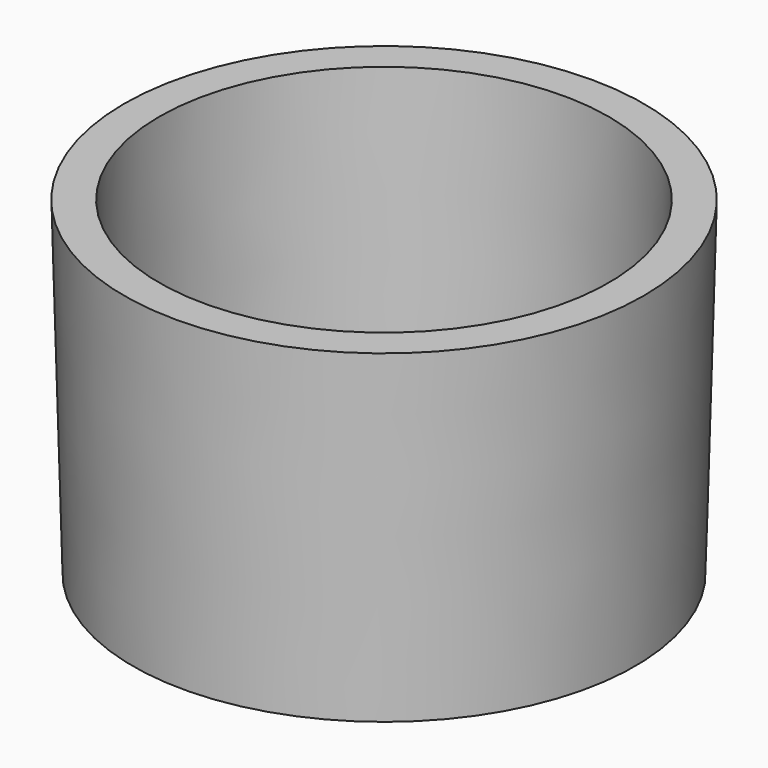
from build123d import *


with BuildPart() as part:
    # Sketch → Revolution (revolve)
    with BuildSketch(Plane.XZ):
        Polygon((-23.7, 30), (-22.9, 0), (-22.9, 0), (-19.9, 0), (-20.5, 30), align=None)
    revolve(axis=Axis((0, 0, 0), (0, 0, 1)))


solid = part.part
